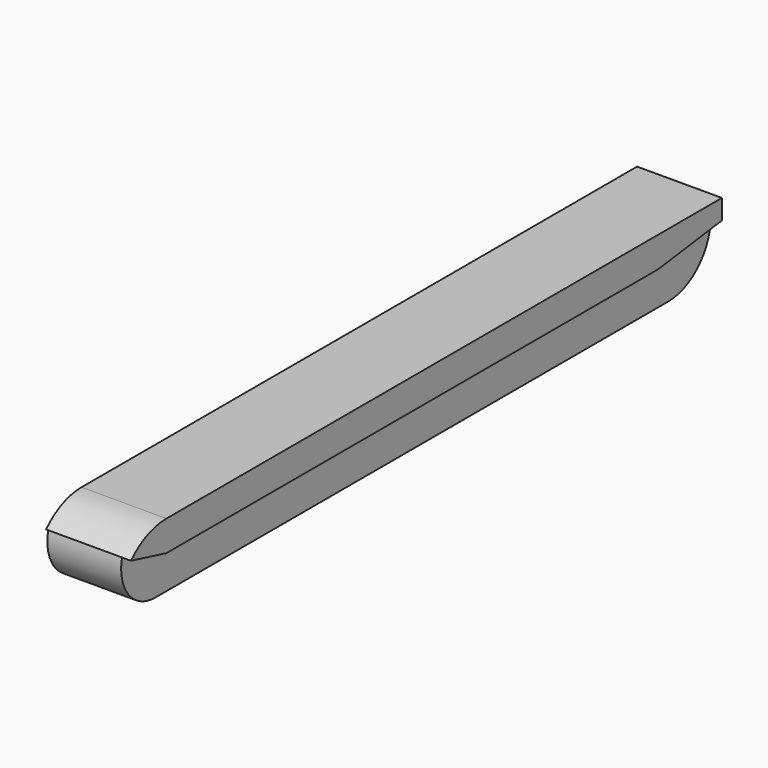
from build123d import *

# Parameters (mm, degrees)
F0_W     = 42.3045453848
F0_H     = 2.0955
F1_DEPTH = 5.842
F0_H_2   = 2.9395276724
F2_DEPTH = 5.08


with BuildPart() as f1:
    # F0 (on Right) → F1 (new body)
    with BuildSketch(Plane.YZ):
        with BuildLine():
            Line((-27.856127011, -0.0136474585), (-27.856127011, 2.0818525415))
            ThreePointArc((-27.856127011, 2.0818525415), (-29.51683868, 1.7387763651), (-30.9056579084, 0.7657164176))
            Line((-30.9056579084, 0.7657164176), (-30.7041171732, 0.7142089649))
            Line((-30.7041171732, 0.7142089649), (-27.856127011, -0.0136474585))
        make_face()
        with Locations((-6.7038543186, 1.0341025415)):
            Rectangle(F0_W, F0_H)
        Polygon((19.4500260153, 2.0818525415), (14.4484183737, 2.0818525415), (14.4484183737, -0.0136474585), (19.953361936, 0.7142089649), (19.953361936, 2.0818525415), align=None)
    extrude(amount=F1_DEPTH)

    # F0 (on Right) → F2 (join)
    with BuildSketch(Plane.YZ):
        with BuildLine():
            Line((-27.856127011, -2.953175131), (-27.856127011, -0.0136474585))
            Line((-27.856127011, -0.0136474585), (-30.7041171732, 0.7142089649))
            ThreePointArc((-30.7041171732, 0.7142089649), (-30.1778049641, -1.816599044), (-27.856127011, -2.953175131))
        make_face()
        with Locations((-6.7038543186, -1.4834112948)):
            Rectangle(F0_W, F0_H_2)
        with BuildLine():
            Line((19.953361936, 0.7142089649), (14.4484183737, -0.0136474585))
            Line((14.4484183737, -0.0136474585), (14.4484183737, -2.953175131))
            Line((14.4484183737, -2.953175131), (16.2859778402, -2.953175131))
            ThreePointArc((16.2859778402, -2.953175131), (18.8792100035, -1.8790231985), (19.953361936, 0.7142089649))
        make_face()
    extrude(amount=F2_DEPTH)


solid = f1.part
